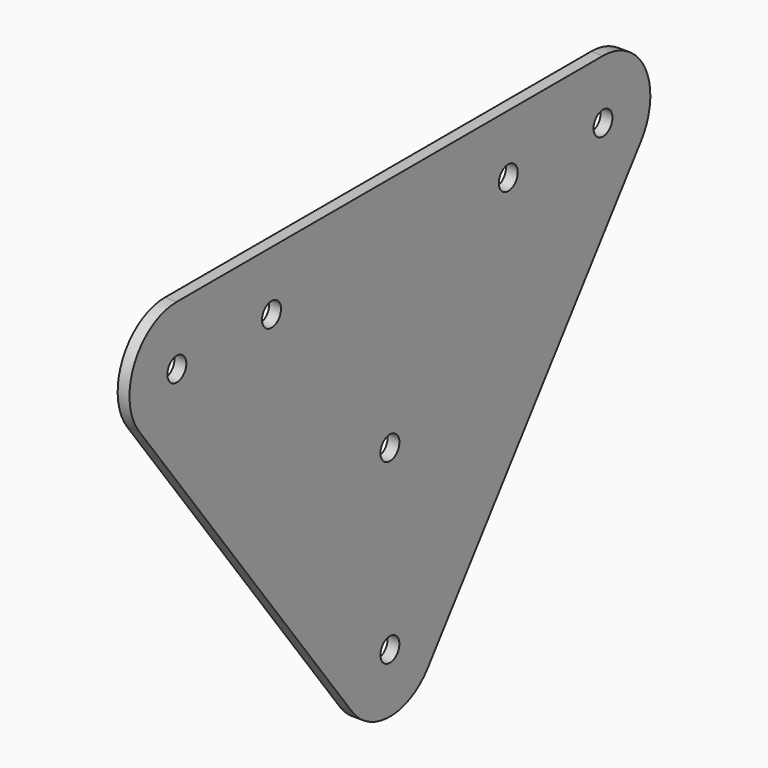
from build123d import *

# Parameters (mm, degrees)
F0_R     = 4
F1_DEPTH = 4


with BuildPart() as f1:
    # F0 (on Right) → F1 (new body)
    with BuildSketch(Plane.YZ):
        with BuildLine():
            Line((-106, 48), (-16, -72))
            ThreePointArc((-16, -72), (0, -80), (16, -72))
            Line((16, -72), (106, 48))
            ThreePointArc((106, 48), (107.888544, 68.944272), (90, 80))
            Line((90, 80), (-90, 80))
            ThreePointArc((-90, 80), (-107.888544, 68.944272), (-106, 48))
        make_face()
        with Locations((0, -60)):
            Circle(F0_R, mode=Mode.SUBTRACT)
        with Locations((-90, 60)):
            Circle(F0_R, mode=Mode.SUBTRACT)
        with Locations((-50, 60)):
            Circle(F0_R, mode=Mode.SUBTRACT)
        Circle(F0_R, mode=Mode.SUBTRACT)
        with Locations((50, 60)):
            Circle(F0_R, mode=Mode.SUBTRACT)
        with Locations((90, 60)):
            Circle(F0_R, mode=Mode.SUBTRACT)
    extrude(amount=F1_DEPTH)


solid = f1.part
